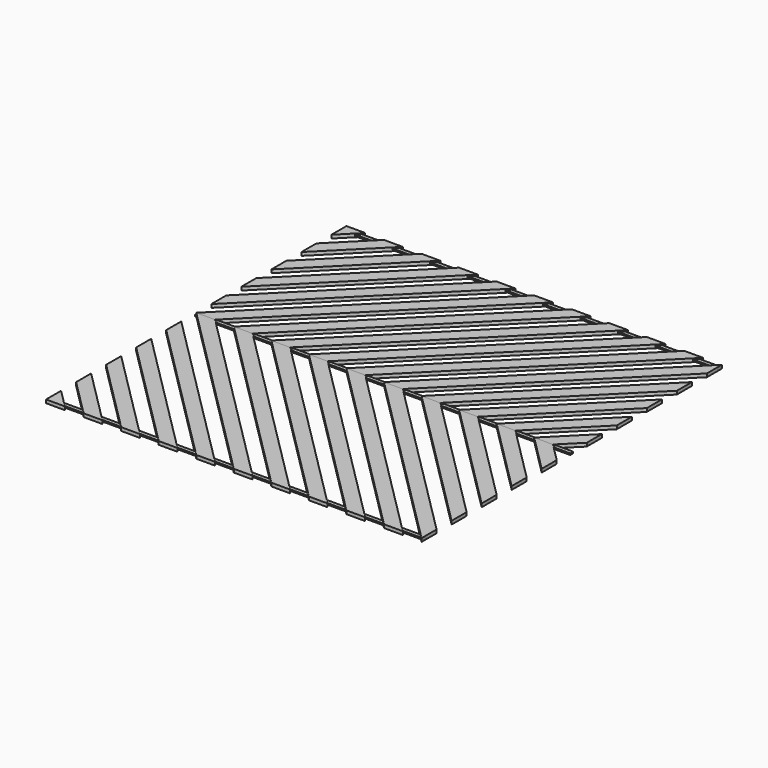
from build123d import *

# Parameters (mm, degrees)
F1_DEPTH = 0.45
F3_W     = 100
F3_H     = 1
F4_DEPTH = 0.2


with BuildPart() as f1:
    # F0 (on Top) → F1 (new body, symmetric)
    with BuildSketch(Plane.XY):
        Polygon((-50, 20), (-50, 15), (-15, 50), (-20, 50), align=None)
        Polygon((-50, 10), (-50, 5), (-5, 50), (-10, 50), align=None)
        Polygon((0, 50), (-50, 0), (-45, 0), (5, 50), align=None)
        Polygon((15, 50), (10, 50), (-40, 0), (-35, 0), align=None)
        Polygon((25, 50), (20, 50), (-30, 0), (-25, 0), align=None)
        Polygon((35, 50), (30, 50), (-20, 0), (-15, 0), align=None)
        Polygon((45, 50), (40, 50), (-10, 0), (-5, 0), align=None)
        Polygon((5, 0), (50, 45), (50, 50), (0, 0), align=None)
        Polygon((15, 0), (50, 35), (50, 40), (10, 0), align=None)
        Polygon((25, 0), (50, 25), (50, 30), (20, 0), align=None)
        Polygon((-50, 30), (-50, 25), (-25, 50), (-30, 50), align=None)
        Polygon((-50, 40), (-50, 35), (-35, 50), (-40, 50), align=None)
        Polygon((-50, 50), (-50, 45), (-45, 50), align=None)
        Polygon((35, 0), (50, 15), (50, 20), (30, 0), align=None)
        Polygon((45, 0), (50, 5), (50, 10), (40, 0), align=None)
    extrude(amount=F1_DEPTH, both=True)


with BuildPart() as f2_1:
    # F2: instance of F1
    add(f1.part.mirror(Plane.XZ))


with BuildPart() as f4:
    # F3 (on Top) → F4 (new body, symmetric)
    with BuildSketch(Plane.XY):
        with Locations((0, 49)):
            Rectangle(F3_W, F3_H)
        with Locations((0, -49)):
            Rectangle(F3_W, F3_H)
        Rectangle(F3_W, F3_H)
    extrude(amount=F4_DEPTH, both=True)


solid = Compound([f1.part, f2_1.part, f4.part])
